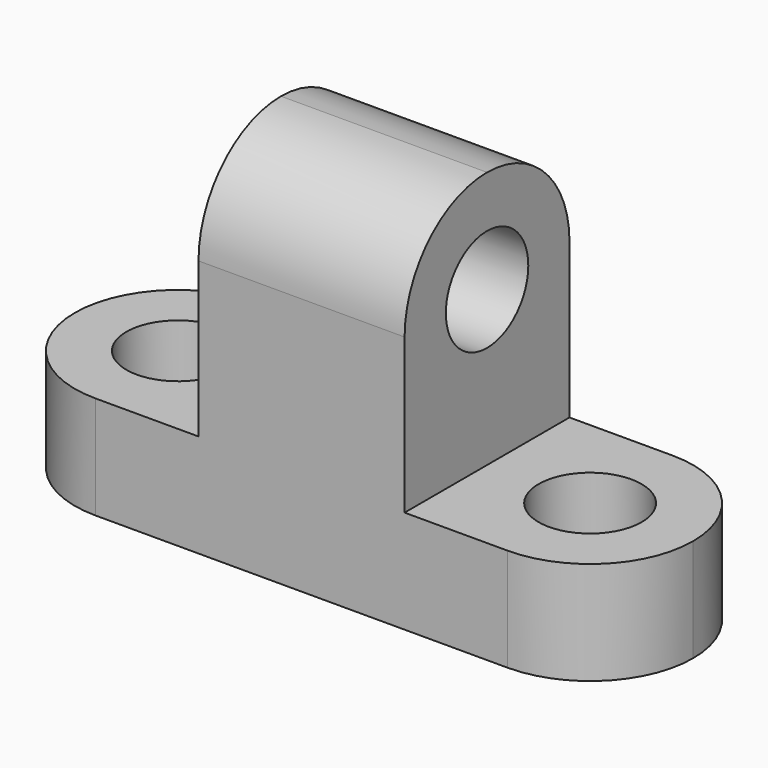
from build123d import *

# Parameters (mm, degrees)
F1_DEPTH  = 25.4
F2_R      = 6.35
F3_DEPTH  = 12.701
F5_DEPTH  = 50.801
F6_R      = 6.35
F7_DEPTH  = 50.801
F9_DEPTH  = 12.701
F11_DEPTH = 12.701


with BuildPart() as f1:
    # F0 (on Front) → F1 (new body)
    with BuildSketch(Plane.XZ):
        Polygon((-41.7823548415, 15.2591690152), (-67.1823548415, 15.2591690152), (-67.1823548415, 2.5591690152), (9.0176451585, 2.5591690152), (9.0176451585, 15.2591690152), (-16.3823548415, 15.2591690152), (-16.3823548415, 47.0091690152), (-41.7823548415, 47.0091690152), align=None)
    extrude(amount=F1_DEPTH)

    # F2 (on face) → F3 (cut, through all)
    with BuildSketch(Plane.XY.offset(15.2591690152)):
        with Locations((-54.4823548415, -12.7)):
            Circle(F2_R)
        with Locations((-3.6823548415, -12.7)):
            Circle(F2_R)
    extrude(amount=-F3_DEPTH, mode=Mode.SUBTRACT)

    # F4 (on face) → F5 (cut, through all)
    with BuildSketch(Plane.YZ.offset(-16.3823548415)):
        with BuildLine():
            ThreePointArc((-25.4, 34.3091690152), (-21.6802561211, 43.2894251362), (-12.7, 47.0091690152))
            Line((-12.7, 47.0091690152), (-25.4, 47.0091690152))
            Line((-25.4, 47.0091690152), (-25.4, 34.3091690152))
        make_face()
        with BuildLine():
            ThreePointArc((-12.7, 47.0091690152), (-3.7197438789, 43.2894251362), (0, 34.3091690152))
            Line((0, 34.3091690152), (0, 47.0091690152))
            Line((0, 47.0091690152), (-12.7, 47.0091690152))
        make_face()
    extrude(amount=-F5_DEPTH, mode=Mode.SUBTRACT)

    # F6 (on face) → F7 (cut, through all)
    with BuildSketch(Plane.YZ.offset(-16.3823548415)):
        with Locations((-12.7, 34.3091690152)):
            Circle(F6_R)
    extrude(amount=-F7_DEPTH, mode=Mode.SUBTRACT)

    # F8 (on face) → F9 (cut, through all)
    with BuildSketch(Plane.XY.offset(15.2591690152)):
        with BuildLine():
            ThreePointArc((-3.6823548415, 0), (5.2979012796, -3.7197438789), (9.0176451585, -12.7))
            Line((9.0176451585, -12.7), (9.0176451585, 0))
            Line((9.0176451585, 0), (-3.6823548415, 0))
        make_face()
        with BuildLine():
            Line((9.0176451585, -25.4), (9.0176451585, -12.7))
            ThreePointArc((9.0176451585, -12.7), (5.2979012796, -21.6802561211), (-3.6823548415, -25.4))
            Line((-3.6823548415, -25.4), (9.0176451585, -25.4))
        make_face()
    extrude(amount=-F9_DEPTH, mode=Mode.SUBTRACT)

    # F10 (on face) → F11 (cut, through all)
    with BuildSketch(Plane.XY.offset(15.2591690152)):
        with BuildLine():
            ThreePointArc((-67.1823548415, -12.7), (-63.4626109626, -3.7197438789), (-54.4823548415, 0))
            Line((-54.4823548415, 0), (-67.1823548415, 0))
            Line((-67.1823548415, 0), (-67.1823548415, -12.7))
        make_face()
        with BuildLine():
            Line((-67.1823548415, -25.4), (-54.4823548415, -25.4))
            ThreePointArc((-54.4823548415, -25.4), (-63.4626109626, -21.6802561211), (-67.1823548415, -12.7))
            Line((-67.1823548415, -12.7), (-67.1823548415, -25.4))
        make_face()
    extrude(amount=-F11_DEPTH, mode=Mode.SUBTRACT)


solid = f1.part
